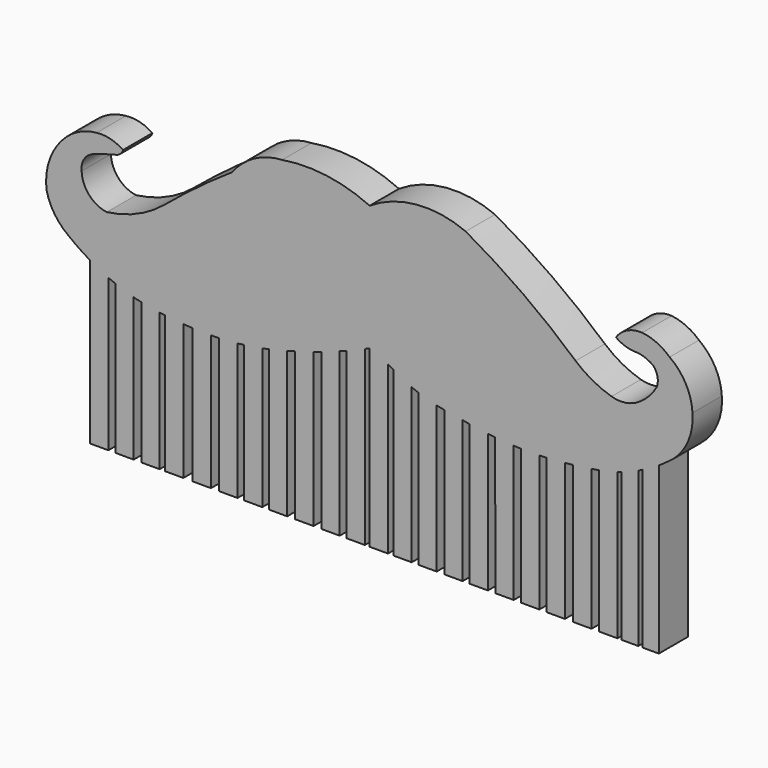
from build123d import *

# Parameters (mm, degrees)
F1_DEPTH = 3


with BuildPart() as f1:
    # F0 (on Front) → F1 (new body)
    with BuildSketch(Plane.XZ):
        with BuildLine():
            ThreePointArc((19.64988, 1.433678), (15.323457, 4.878104), (10.650251, 7.834987))
            ThreePointArc((10.650251, 7.834987), (6.630714, 8.466829), (2.786874, 7.132363))
            ThreePointArc((2.786874, 7.132363), (-0.723137, 8.153352), (-4.378306, 8.104974))
            ThreePointArc((-4.378306, 8.104974), (-6.665865, 7.454354), (-8.461449, 5.894833))
            ThreePointArc((-8.461449, 5.894833), (-11.303445, 3.882664), (-14.034172, 1.7219))
            ThreePointArc((-14.034172, 1.7219), (-16.241362, 0.362004), (-18.739592, -0.33071))
            ThreePointArc((-18.739592, -0.33071), (-20.184903, 0.439819), (-20.795666, 1.959558))
            ThreePointArc((-20.795666, 1.959558), (-20.5849, 2.899405), (-19.829269, 3.496695))
            ThreePointArc((-19.829269, 3.496695), (-18.935867, 3.784112), (-18.032324, 4.037856))
            ThreePointArc((-18.032324, 4.037856), (-17.638426, 4.218128), (-17.404594, 4.582786))
            ThreePointArc((-17.404594, 4.582786), (-18.437288, 5.04708), (-19.567223, 5.119697))
            ThreePointArc((-19.567223, 5.119697), (-20.879767, 4.775386), (-22.018788, 4.037856))
            ThreePointArc((-22.018788, 4.037856), (-23.375832, 2.054301), (-23.672102, -0.33071))
            ThreePointArc((-23.672102, -0.33071), (-23.000152, -1.878598), (-21.816935, -3.081708))
            ThreePointArc((-21.816935, -3.081708), (-20.983966, -3.693037), (-20.110425, -4.244841))
            Line((-20.110425, -4.244841), (-20.10519, -4.36016))
            Line((-20.10519, -4.36016), (-20.10519, -17.453194))
            Line((-20.10519, -17.453194), (-18.60519, -17.453194))
            Line((-18.60519, -17.453194), (-18.60519, -5.012271))
            ThreePointArc((-18.60519, -5.012271), (-18.322698, -5.133071), (-18.037762, -5.247988))
            Line((-18.037762, -5.247988), (-18.032324, -17.453194))
            Line((-18.032324, -17.453194), (-16.532324, -17.453194))
            Line((-16.532324, -17.453194), (-16.532324, -5.745979))
            ThreePointArc((-16.532324, -5.745979), (-16.219609, -5.827508), (-15.90519, -5.902199))
            Line((-15.90519, -5.902199), (-15.90519, -17.453194))
            Line((-15.90519, -17.453194), (-14.40519, -17.453194))
            Line((-14.40519, -17.453194), (-14.40519, -6.161144))
            ThreePointArc((-14.40519, -6.161144), (-14.189632, -6.185442), (-13.973741, -6.206582))
            Line((-13.973741, -6.206582), (-13.968729, -17.453194))
            Line((-13.968729, -17.453194), (-12.468729, -17.453194))
            Line((-12.468729, -17.453194), (-12.468729, -6.355174))
            ThreePointArc((-12.468729, -6.355174), (-12.08716, -6.383263), (-11.70519, -6.405258))
            Line((-11.70519, -6.405258), (-11.70519, -17.453194))
            Line((-11.70519, -17.453194), (-10.20519, -17.453194))
            Line((-10.20519, -17.453194), (-10.20519, -6.432613))
            ThreePointArc((-10.20519, -6.432613), (-9.869726, -6.425881), (-9.53439, -6.414452))
            Line((-9.53439, -6.414452), (-9.52947, -17.453194))
            Line((-9.52947, -17.453194), (-8.02947, -17.453194))
            Line((-8.02947, -17.453194), (-8.02947, -6.305079))
            ThreePointArc((-8.02947, -6.305079), (-7.767164, -6.276231), (-7.50519, -6.244497))
            Line((-7.50519, -6.244497), (-7.50519, -17.453194))
            Line((-7.50519, -17.453194), (-6.00519, -17.453194))
            Line((-6.00519, -17.453194), (-6.00519, -6.044151))
            Line((-6.00519, -6.044151), (-6.006557, -6.006161))
            ThreePointArc((-6.006557, -6.006161), (-5.736134, -5.952714), (-5.466344, -5.89616))
            Line((-5.466344, -5.89616), (-5.461194, -17.453194))
            Line((-5.461194, -17.453194), (-3.961194, -17.453194))
            Line((-3.961194, -17.453194), (-3.961194, -5.52024))
            ThreePointArc((-3.961194, -5.52024), (-3.632846, -5.432887), (-3.30519, -5.342972))
            Line((-3.30519, -5.342972), (-3.30519, -17.453194))
            Line((-3.30519, -17.453194), (-1.80519, -17.453194))
            Line((-1.80519, -17.453194), (-1.80519, -4.895811))
            ThreePointArc((-1.80519, -4.895811), (-1.486897, -4.793308), (-1.169401, -4.688361))
            Line((-1.169401, -4.688361), (-1.163963, -17.453194))
            Line((-1.163963, -17.453194), (0.336037, -17.453194))
            Line((0.336037, -17.453194), (0.336037, -4.153387))
            ThreePointArc((0.336037, -4.153387), (0.623788, -4.043977), (0.910758, -3.932534))
            Line((0.910758, -3.932534), (0.89481, -4.038423))
            Line((0.89481, -4.038423), (0.89481, -17.453194))
            Line((0.89481, -17.453194), (2.39481, -17.453194))
            Line((2.39481, -17.453194), (2.39481, -3.318312))
            ThreePointArc((2.39481, -3.318312), (2.591489, -3.232046), (2.78774, -3.14481))
            Line((2.78774, -3.14481), (2.786874, -17.453194))
            Line((2.786874, -17.453194), (4.286874, -17.453194))
            Line((4.286874, -17.453194), (4.286874, -3.791388))
            ThreePointArc((4.286874, -3.791388), (4.50534, -3.931658), (4.726803, -4.067149))
            Line((4.726803, -4.067149), (4.726803, -17.453194))
            Line((4.726803, -17.453194), (6.226803, -17.453194))
            Line((6.226803, -17.453194), (6.226803, -4.824973))
            ThreePointArc((6.226803, -4.824973), (6.500619, -4.935953), (6.777095, -5.040129))
            Line((6.777095, -5.040129), (6.777095, -17.453194))
            Line((6.777095, -17.453194), (8.277095, -17.453194))
            Line((8.277095, -17.453194), (8.277095, -5.475662))
            ThreePointArc((8.277095, -5.475662), (8.588473, -5.54004), (8.901453, -5.596111))
            Line((8.901453, -5.596111), (8.901453, -17.453194))
            Line((8.901453, -17.453194), (10.401453, -17.453194))
            Line((10.401453, -17.453194), (10.401453, -5.844886))
            ThreePointArc((10.401453, -5.844886), (10.683933, -5.897254), (10.96692, -5.946817))
            Line((10.96692, -5.946817), (10.972047, -17.453194))
            Line((10.972047, -17.453194), (12.472047, -17.453194))
            Line((12.472047, -17.453194), (12.472047, -6.162236))
            ThreePointArc((12.472047, -6.162236), (12.769688, -6.195327), (13.067656, -6.225338))
            Line((13.067656, -6.225338), (13.073482, -17.453194))
            Line((13.073482, -17.453194), (14.584494, -17.453194))
            Line((14.584494, -17.453194), (14.584494, -6.330084))
            ThreePointArc((14.584494, -6.330084), (14.88197, -6.341257), (15.179546, -6.349371))
            Line((15.179546, -6.349371), (15.184494, -17.453194))
            Line((15.184494, -17.453194), (16.684494, -17.453194))
            Line((16.684494, -17.453194), (16.684494, -6.343539))
            ThreePointArc((16.684494, -6.343539), (16.980227, -6.33319), (17.27584, -6.319818))
            Line((17.27584, -6.319818), (17.27584, -6.356424))
            Line((17.27584, -6.356424), (17.27584, -17.453194))
            Line((17.27584, -17.453194), (18.77584, -17.453194))
            Line((18.77584, -17.453194), (18.77584, -6.205151))
            ThreePointArc((18.77584, -6.205151), (19.113283, -6.168516), (19.450272, -6.127927))
            Line((19.450272, -6.127927), (19.455319, -17.453194))
            Line((19.455319, -17.453194), (20.955319, -17.453194))
            Line((20.955319, -17.453194), (20.955319, -5.91936))
            ThreePointArc((20.955319, -5.91936), (21.263829, -5.876265), (21.571221, -5.82581))
            Line((21.571221, -5.82581), (21.571221, -17.453194))
            Line((21.571221, -17.453194), (23.071221, -17.453194))
            Line((23.071221, -17.453194), (23.071221, -5.468547))
            Line((23.071221, -5.468547), (23.425881, -5.329391))
            Line((23.425881, -5.329391), (23.425881, -17.453194))
            Line((23.425881, -17.453194), (24.779715, -17.453194))
            Line((24.779715, -17.453194), (24.779715, -4.81928))
            Line((24.779715, -4.81928), (25.144875, -4.61932))
            Line((25.144875, -4.61932), (25.144875, -17.453194))
            Line((25.144875, -17.453194), (26.461203, -17.453194))
            Line((26.461203, -17.453194), (26.461203, -4.36016))
            Line((26.461203, -4.36016), (26.461203, -3.884922))
            ThreePointArc((26.461203, -3.884922), (26.789065, -3.662423), (27.110012, -3.430062))
            ThreePointArc((27.110012, -3.430062), (28.749864, -1.609204), (29.219028, 0.7959))
            ThreePointArc((29.219028, 0.7959), (28.672922, 2.715777), (27.348137, 4.208795))
            ThreePointArc((27.348137, 4.208795), (26.308789, 4.900953), (25.106104, 5.236921))
            ThreePointArc((25.106104, 5.236921), (23.892424, 5.002762), (22.945076, 4.208795))
            ThreePointArc((22.945076, 4.208795), (23.790754, 3.790745), (24.726035, 3.667505))
            ThreePointArc((24.726035, 3.667505), (25.403757, 3.496758), (26.01371, 3.155556))
            ThreePointArc((26.01371, 3.155556), (26.358297, 2.455561), (26.280997, 1.679185))
            ThreePointArc((26.280997, 1.679185), (25.668609, 0.851297), (24.878269, 0.19116))
            ThreePointArc((24.878269, 0.19116), (23.775899, -0.249398), (22.591121, -0.174478))
            ThreePointArc((22.591121, -0.174478), (21.034715, 0.472702), (19.64988, 1.433678))
        make_face()
    extrude(amount=F1_DEPTH)


solid = f1.part
